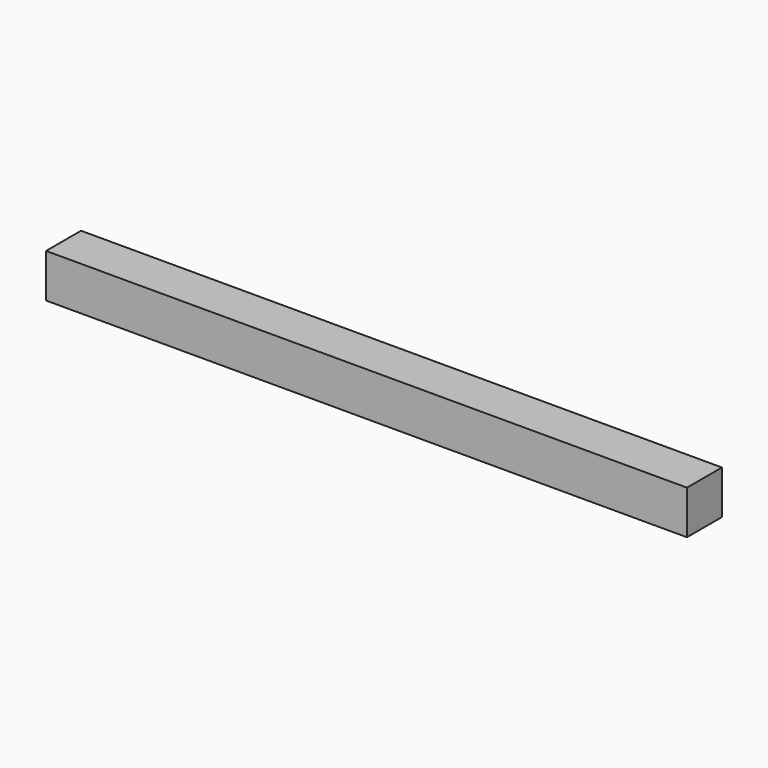
from build123d import *

# Parameters (mm, degrees)
SKETCH_W  = 69.85
SKETCH_H  = 4.7625
PAD_DEPTH = 4.7625


with BuildPart() as part:
    # Sketch → Pad (new body)
    with BuildSketch(Plane.XY):
        with Locations((34.925, 2.38125)):
            Rectangle(SKETCH_W, SKETCH_H)
    extrude(amount=PAD_DEPTH)


solid = part.part
